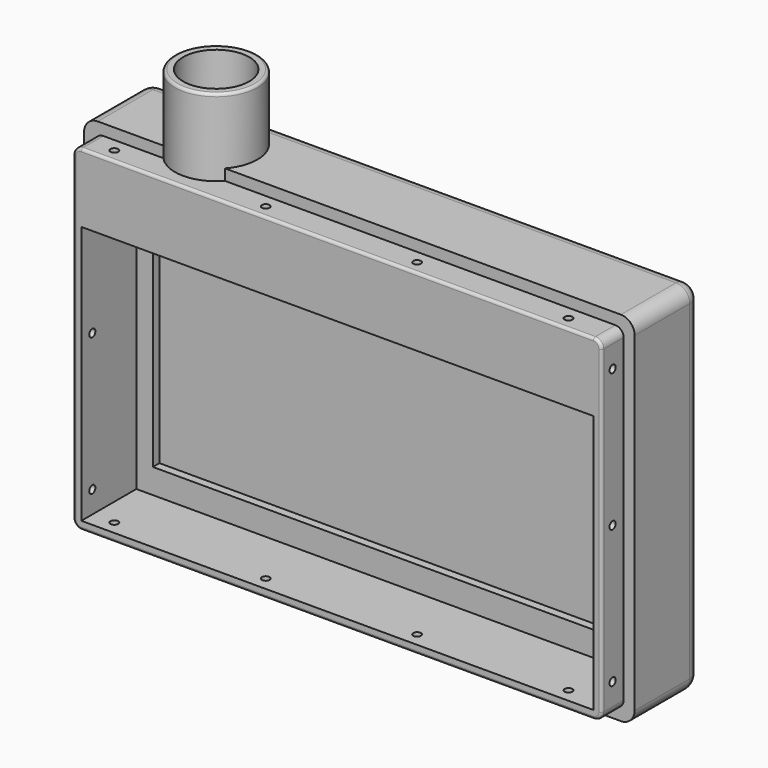
from build123d import *

# Parameters (mm, degrees)
CYLINDER017_R           = 1.4
CYLINDER017_DEPTH       = 210
CYLINDER017_PITCH_ANGLE = 90
CYLINDER016_R           = 1.4
CYLINDER016_DEPTH       = 16
CYLINDER016_PITCH_ANGLE = 90
CYLINDER022_R           = 1.4
CYLINDER022_DEPTH       = 210
CYLINDER022_PITCH_ANGLE = 90
CYLINDER011_R           = 1.4
CYLINDER011_DEPTH       = 140
CYLINDER018_R           = 1.4
CYLINDER018_DEPTH       = 16
CYLINDER013_R           = 1.4
CYLINDER013_DEPTH       = 140
CYLINDER020_R           = 1.4
CYLINDER020_DEPTH       = 16
CYLINDER014_R           = 1.4
CYLINDER014_DEPTH       = 140
CYLINDER019_R           = 1.4
CYLINDER019_DEPTH       = 16
CYLINDER021_R           = 1.4
CYLINDER021_DEPTH       = 16
CYLINDER012_R           = 1.4
CYLINDER012_DEPTH       = 140
CYLINDER015_R           = 1.4
CYLINDER015_DEPTH       = 210
CYLINDER015_PITCH_ANGLE = 90
CYLINDER002_R           = 12
CYLINDER002_DEPTH       = 40
BOX014_W                = 204
BOX014_H                = 20
BOX014_DEPTH            = 134
THICKNESS_T             = -6
FILLET007_R             = 3
BOX011_W                = 186
BOX011_H                = 34
BOX011_DEPTH            = 94
BOX010_W                = 192
BOX010_H                = 9
BOX010_DEPTH            = 122
BOX009_W                = 174
BOX009_H                = 10
BOX009_DEPTH            = 77
BOX012_W                = 192
BOX012_H                = 19
BOX012_DEPTH            = 21
BOX002_W                = 200
BOX002_H                = 40
BOX002_DEPTH            = 130
FILLET005_R             = 5
CYLINDER001_R           = 15
CYLINDER001_DEPTH       = 28
FILLET008_R             = 1
CHAMFER_SIZE            = 4
FILLET009_R             = 2


with BuildPart() as cylinder017:
    # Cylinder017 → Cylinder017 (new body)
    with BuildSketch(Plane.XY):
        Circle(CYLINDER017_R)
    extrude(amount=CYLINDER017_DEPTH)


with BuildPart() as cylinder017_1:
    # Cylinder017 pitch: moved
    add(cylinder017.part.rotate(Axis((0, 0, 0), (0, 1, 0)), CYLINDER017_PITCH_ANGLE))


with BuildPart() as cylinder017_2:
    # Cylinder017 placement: moved
    add(cylinder017_1.part.moved(Location((-5, 55, 65))))


with BuildPart() as cylinder016:
    # Cylinder016 → Cylinder016 (new body)
    with BuildSketch(Plane.XY):
        Circle(CYLINDER016_R)
    extrude(amount=CYLINDER016_DEPTH)


with BuildPart() as cylinder016_1:
    # Cylinder016 pitch: moved
    add(cylinder016.part.rotate(Axis((0, 0, 0), (0, 1, 0)), CYLINDER016_PITCH_ANGLE))


with BuildPart() as cylinder016_2:
    # Cylinder016 placement: moved
    add(cylinder016_1.part.moved(Location((-5, 55, 115))))


with BuildPart() as cylinder022:
    # Cylinder022 → Cylinder022 (new body)
    with BuildSketch(Plane.XY):
        Circle(CYLINDER022_R)
    extrude(amount=CYLINDER022_DEPTH)


with BuildPart() as cylinder022_1:
    # Cylinder022 pitch: moved
    add(cylinder022.part.rotate(Axis((0, 0, 0), (0, 1, 0)), CYLINDER022_PITCH_ANGLE))


with BuildPart() as cylinder022_2:
    # Cylinder022 placement: moved
    add(cylinder022_1.part.moved(Location((189, 55, 115))))


with BuildPart() as cylinder011:
    # Cylinder011 → Cylinder011 (new body)
    with BuildSketch(Plane(origin=(15, 55, 116), x_dir=(1, 0, 0), z_dir=(0, 0, 1))):
        Circle(CYLINDER011_R)
    extrude(amount=CYLINDER011_DEPTH)


with BuildPart() as cylinder018:
    # Cylinder018 → Cylinder018 (new body)
    with BuildSketch(Plane(origin=(15, 55, -5), x_dir=(1, 0, 0), z_dir=(0, 0, 1))):
        Circle(CYLINDER018_R)
    extrude(amount=CYLINDER018_DEPTH)


with BuildPart() as cylinder013:
    # Cylinder013 → Cylinder013 (new body)
    with BuildSketch(Plane(origin=(70, 55, 116), x_dir=(1, 0, 0), z_dir=(0, 0, 1))):
        Circle(CYLINDER013_R)
    extrude(amount=CYLINDER013_DEPTH)


with BuildPart() as cylinder020:
    # Cylinder020 → Cylinder020 (new body)
    with BuildSketch(Plane(origin=(125, 55, -5), x_dir=(1, 0, 0), z_dir=(0, 0, 1))):
        Circle(CYLINDER020_R)
    extrude(amount=CYLINDER020_DEPTH)


with BuildPart() as cylinder014:
    # Cylinder014 → Cylinder014 (new body)
    with BuildSketch(Plane(origin=(125, 55, 116), x_dir=(1, 0, 0), z_dir=(0, 0, 1))):
        Circle(CYLINDER014_R)
    extrude(amount=CYLINDER014_DEPTH)


with BuildPart() as cylinder019:
    # Cylinder019 → Cylinder019 (new body)
    with BuildSketch(Plane(origin=(70, 55, -5), x_dir=(1, 0, 0), z_dir=(0, 0, 1))):
        Circle(CYLINDER019_R)
    extrude(amount=CYLINDER019_DEPTH)


with BuildPart() as cylinder021:
    # Cylinder021 → Cylinder021 (new body)
    with BuildSketch(Plane(origin=(180, 55, -5), x_dir=(1, 0, 0), z_dir=(0, 0, 1))):
        Circle(CYLINDER021_R)
    extrude(amount=CYLINDER021_DEPTH)


with BuildPart() as cylinder012:
    # Cylinder012 → Cylinder012 (new body)
    with BuildSketch(Plane(origin=(180, 55, 116), x_dir=(1, 0, 0), z_dir=(0, 0, 1))):
        Circle(CYLINDER012_R)
    extrude(amount=CYLINDER012_DEPTH)


with BuildPart() as fusion009:
    # Cylinder015 → Cylinder015 (new body)
    with BuildSketch(Plane.XY):
        Circle(CYLINDER015_R)
    extrude(amount=CYLINDER015_DEPTH)


with BuildPart() as fusion009_1:
    # Cylinder015 pitch: moved
    add(fusion009.part.rotate(Axis((0, 0, 0), (0, 1, 0)), CYLINDER015_PITCH_ANGLE))


with BuildPart() as fusion009_2:
    # Cylinder015 placement: moved
    add(fusion009_1.part.moved(Location((-5, 55, 15))))

    # Fusion009: union Cylinder017, Cylinder016, Cylinder022, Cylinder011, Cylinder018, Cylinder013, Cylinder020, Cylinder014, Cylinder019, Cylinder021, Cylinder012
    add(cylinder017_2.part)
    add(cylinder016_2.part)
    add(cylinder022_2.part)
    add(cylinder011.part)
    add(cylinder018.part)
    add(cylinder013.part)
    add(cylinder020.part)
    add(cylinder014.part)
    add(cylinder019.part)
    add(cylinder021.part)
    add(cylinder012.part)


with BuildPart() as cylinder002:
    # Cylinder002 → Cylinder002 (new body)
    with BuildSketch(Plane(origin=(40, 70, 120), x_dir=(1, 0, 0), z_dir=(0, 0, 1))):
        Circle(CYLINDER002_R)
    extrude(amount=CYLINDER002_DEPTH)


with BuildPart() as fillet007:
    # Box014 → Box014 (new body)
    with BuildSketch(Plane(origin=(-2, 48, -2), x_dir=(1, 0, 0), z_dir=(0, 0, 1))):
        with Locations((102, 10)):
            Rectangle(BOX014_W, BOX014_H)
    extrude(amount=BOX014_DEPTH)

    # Thickness
    thickness_openings = [fillet007.faces().sort_by_distance(p)[0] for p in [
        (100, 48, 65),
        (100, 68, 65),
    ]]
    offset(amount=THICKNESS_T, openings=thickness_openings)

    # Fillet007
    fillet007_edges = [fillet007.edges().sort_by_distance(p)[0] for p in [
        (196, 58, 4),
        (4, 58, 4),
        (196, 58, 126),
        (4, 58, 126),
    ]]
    fillet(fillet007_edges, radius=FILLET007_R)


with BuildPart() as fillet007_1:
    # Fillet007 placement: moved
    add(fillet007.part.moved(Location((0, -8, 0))))


with BuildPart() as cube011:
    # Box011 → Box011 (new body)
    with BuildSketch(Plane(origin=(7, 45, 7), x_dir=(1, 0, 0), z_dir=(0, 0, 1))):
        with Locations((93, 17)):
            Rectangle(BOX011_W, BOX011_H)
    extrude(amount=BOX011_DEPTH)


with BuildPart() as cube010:
    # Box010 → Box010 (new body)
    with BuildSketch(Plane(origin=(4, 82, 4), x_dir=(1, 0, 0), z_dir=(0, 0, 1))):
        with Locations((96, 4.5)):
            Rectangle(BOX010_W, BOX010_H)
    extrude(amount=BOX010_DEPTH)


with BuildPart() as cube009:
    # Box009 → Box009 (new body)
    with BuildSketch(Plane(origin=(13, 75, 16), x_dir=(1, 0, 0), z_dir=(0, 0, 1))):
        with Locations((87, 5)):
            Rectangle(BOX009_W, BOX009_H)
    extrude(amount=BOX009_DEPTH)


with BuildPart() as fusion004:
    # Box012 → Box012 (new body)
    with BuildSketch(Plane(origin=(4, 67, 105), x_dir=(1, 0, 0), z_dir=(0, 0, 1))):
        with Locations((96, 9.5)):
            Rectangle(BOX012_W, BOX012_H)
    extrude(amount=BOX012_DEPTH)

    # Fusion004: union Cube011, Cube010, Cube009
    add(cube011.part)
    add(cube010.part)
    add(cube009.part)


with BuildPart() as fusion004_1:
    # Fusion004 placement: moved
    add(fusion004.part.moved(Location((0, -4, 0))))


with BuildPart() as cut009:
    # Box002 → Box002 (new body)
    with BuildSketch(Plane(origin=(0, 50, 0), x_dir=(1, 0, 0), z_dir=(0, 0, 1))):
        with Locations((100, 20)):
            Rectangle(BOX002_W, BOX002_H)
    extrude(amount=BOX002_DEPTH)

    # Fillet005
    fillet005_edges = [cut009.edges().sort_by_distance(p)[0] for p in [
        (0, 70, 130),
        (0, 90, 65),
        (0, 70, 0),
        (200, 70, 130),
        (200, 90, 65),
        (200, 70, 0),
        (100, 90, 0),
        (100, 90, 130),
    ]]
    fillet(fillet005_edges, radius=FILLET005_R)

    # Cut006: cut Fusion004
    add(fusion004_1.part, mode=Mode.SUBTRACT)

    # Cut009: cut Fillet007
    add(fillet007_1.part, mode=Mode.SUBTRACT)


with BuildPart() as fillet009:
    # Cylinder001 → Cylinder001 (new body)
    with BuildSketch(Plane(origin=(40, 70, 126), x_dir=(1, 0, 0), z_dir=(0, 0, 1))):
        Circle(CYLINDER001_R)
    extrude(amount=CYLINDER001_DEPTH)

    # Fusion008: union Cut009
    add(cut009.part)

    # Cut010: cut Cylinder002
    add(cylinder002.part, mode=Mode.SUBTRACT)

    # Cut012: cut Fusion009
    add(fusion009_2.part, mode=Mode.SUBTRACT)

    # Fillet008
    fillet008_edges = [fillet009.edges().sort_by_distance(p)[0] for p in [
        (25, 70, 154),
        (195.12132, 50, 125.12132),
    ]]
    fillet(fillet008_edges, radius=FILLET008_R)

    # Chamfer
    chamfer_edges = [fillet009.edges().sort_by_distance(p)[0] for p in [
        (40, 63, 120),
    ]]
    chamfer(chamfer_edges, length=CHAMFER_SIZE)

    # Fillet009
    fillet009_edges = [fillet009.edges().sort_by_distance(p)[0] for p in [
        (17.126603, 63, 126),
        (4, 63, 115.5),
        (100, 63, 105),
        (122.873397, 63, 126),
        (196, 63, 115.5),
        (4, 75, 126),
        (100, 87, 126),
        (196, 75, 126),
        (4, 78, 54.5),
        (4, 70.5, 105),
        (4, 87, 65),
        (4, 82.5, 4),
        (100, 78, 105),
        (196, 70.5, 105),
        (196, 78, 54.5),
        (196, 82.5, 4),
        (196, 87, 65),
        (100, 87, 4),
        (100, 78, 4),
    ]]
    fillet(fillet009_edges, radius=FILLET009_R)


solid = fillet009.part
